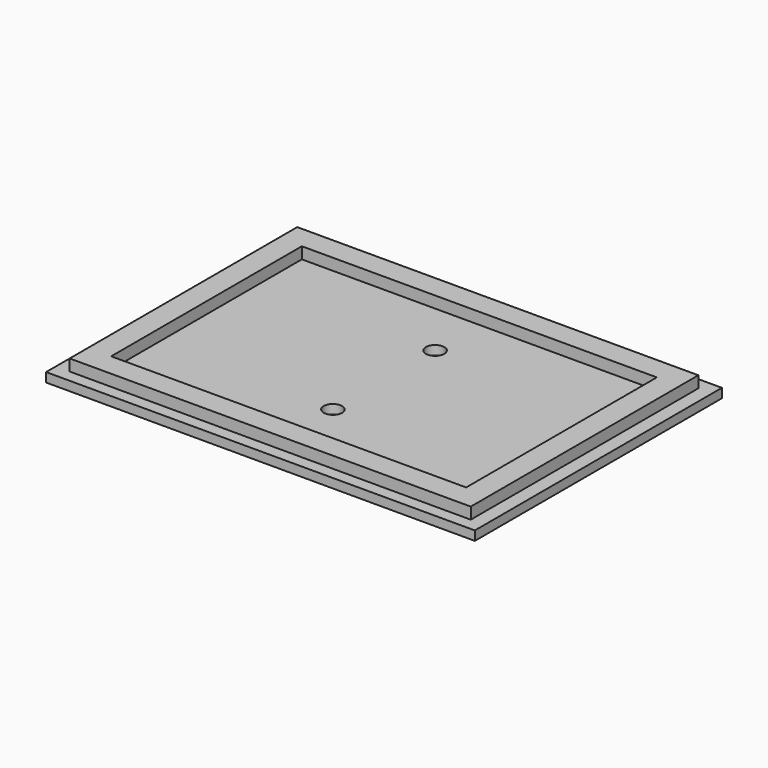
from build123d import *

# Parameters (mm, degrees)
F0_W     = 93
F0_H     = 67
F1_DEPTH = 2
F2_W     = 87
F2_H     = 61.7
F3_DEPTH = 2.5
F4_R     = 2
F5_DEPTH = 4.501
F6_W     = 77
F6_H     = 51.7
F7_DEPTH = 2.5


with BuildPart() as f1:
    # F0 (on Top) → F1 (new body)
    with BuildSketch(Plane.XY):
        Rectangle(F0_W, F0_H)
    extrude(amount=F1_DEPTH)

    # F2 (on face) → F3 (join)
    with BuildSketch(Plane.XY.offset(2)):
        Rectangle(F2_W, F2_H)
    extrude(amount=F3_DEPTH)

    # F4 (on face) → F5 (cut, through all)
    with BuildSketch(Plane.XY.offset(4.5)):
        with Locations((0, 13.85)):
            Circle(F4_R)
        with Locations((0, -13.85)):
            Circle(F4_R)
    extrude(amount=-F5_DEPTH, mode=Mode.SUBTRACT)

    # F6 (on face) → F7 (cut)
    with BuildSketch(Plane.XY.offset(4.5)):
        Rectangle(F6_W, F6_H)
    extrude(amount=-F7_DEPTH, mode=Mode.SUBTRACT)


solid = f1.part
